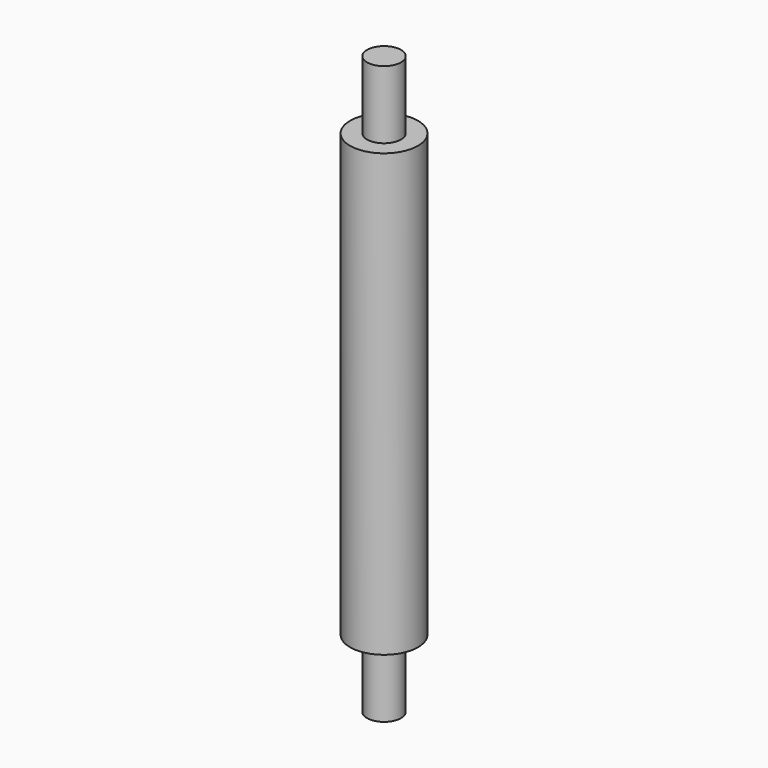
from build123d import *

# Parameters (mm, degrees)
TUBE_R         = 0.5
TUBE_R_2       = 0.25
TUBE_DEPTH     = 6.5
CYLINDER_R     = 0.25
CYLINDER_DEPTH = 8.5


with BuildPart() as tube:
    # Tube → Tube (new body)
    with BuildSketch(Plane.XY):
        Circle(TUBE_R)
        Circle(TUBE_R_2, mode=Mode.SUBTRACT)
    extrude(amount=TUBE_DEPTH)


with BuildPart() as cylinder:
    # Cylinder → Cylinder (new body)
    with BuildSketch(Plane.XY.offset(-1)):
        Circle(CYLINDER_R)
    extrude(amount=CYLINDER_DEPTH)


solid = Compound([tube.part, cylinder.part])
